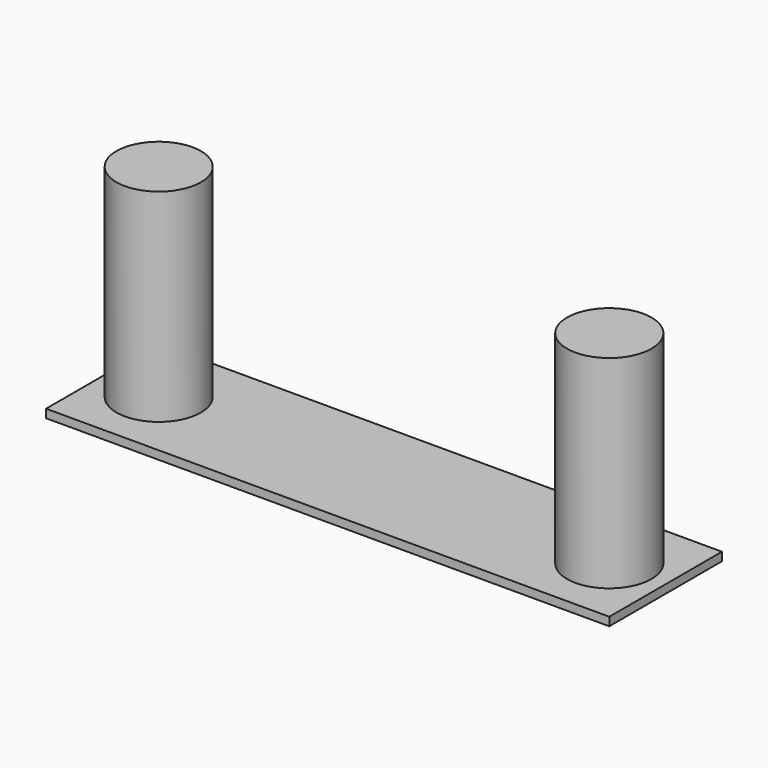
from build123d import *

# Parameters (mm, degrees)
F0_W     = 40
F0_H     = 10
F0_R     = 3
F1_DEPTH = 0.6
F2_DEPTH = 15
F3_DEPTH = 15


with BuildPart() as f1:
    # F0 (on Top) → F1 (new body)
    with BuildSketch(Plane.XY):
        Rectangle(F0_W, F0_H)
        with Locations((-16, 0)):
            Circle(F0_R, mode=Mode.SUBTRACT)
        with Locations((16, 0)):
            Circle(F0_R, mode=Mode.SUBTRACT)
    extrude(amount=F1_DEPTH)

    # F0 (on Top) → F2 (join)
    with BuildSketch(Plane.XY):
        with Locations((-16, 0)):
            Circle(F0_R)
    extrude(amount=F2_DEPTH)


with BuildPart() as f3:
    # F0 (on Top) → F3 (new body)
    with BuildSketch(Plane.XY):
        with Locations((16, 0)):
            Circle(F0_R)
    extrude(amount=F3_DEPTH)


solid = Compound([f1.part, f3.part])
